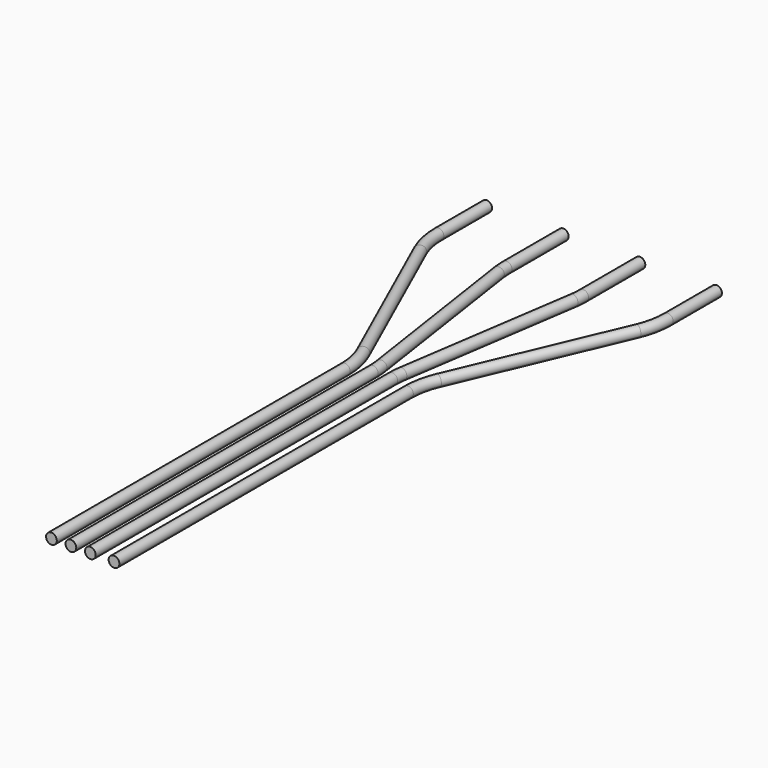
from build123d import *

# Parameters (mm, degrees)
F4_R = 1.4
F5_R = 1.4
F6_R = 1.4
F7_R = 1.4


with BuildPart() as f8:
    # F8: sweep along a path in F0
    with BuildLine(Plane.XY) as f8_path:
        Line((-7.62, 0), (-7.62, 95.728198357))
        ThreePointArc((-7.62, 95.728198357), (-8.0611685251, 99.9057707785), (-9.3652111337, 103.8990418536))
        Line((-9.3652111337, 103.8990418536), (-28.2547888663, 146.1009581464))
        ThreePointArc((-28.2547888663, 146.1009581464), (-29.5588314749, 150.0942292215), (-30, 154.271801643))
        Line((-30, 154.271801643), (-30, 170))
    # F4 (on Front) → F8 (sweep)
    with BuildSketch(Plane.XZ):
        with Locations((-7.62, 0)):
            Circle(F4_R)
    sweep(path=f8_path.line)


with BuildPart() as f9:
    # F9: sweep along a path in F1
    with BuildLine(Plane.XY) as f9_path:
        Line((-2.54, 0), (-2.54, 98.5162120673))
        ThreePointArc((-2.54, 98.5162120673), (-2.5948144923, 99.9959333459), (-2.7589575062, 101.4675436074))
        Line((-2.7589575062, 101.4675436074), (-9.7810424938, 148.5324563926))
        ThreePointArc((-9.7810424938, 148.5324563926), (-9.9451855077, 150.0040666541), (-10, 151.4837879327))
        Line((-10, 151.4837879327), (-10, 170))
    # F5 (on Front) → F9 (sweep)
    with BuildSketch(Plane.XZ):
        with Locations((-2.54, 0)):
            Circle(F5_R)
    sweep(path=f9_path.line)


with BuildPart() as f10:
    # F10: sweep along a path in F2
    with BuildLine(Plane.XY) as f10_path:
        Line((2.54, 0), (2.54, 98.5162120673))
        ThreePointArc((2.54, 98.5162120673), (2.5948144923, 99.9959333459), (2.7589575062, 101.4675436074))
        Line((2.7589575062, 101.4675436074), (9.7810424938, 148.5324563926))
        ThreePointArc((9.7810424938, 148.5324563926), (9.9451855077, 150.0040666541), (10, 151.4837879327))
        Line((10, 151.4837879327), (10, 170))
    # F6 (on Front) → F10 (sweep)
    with BuildSketch(Plane.XZ):
        with Locations((2.54, 0)):
            Circle(F6_R)
    sweep(path=f10_path.line)


with BuildPart() as f11:
    # F11: sweep along a path in F3
    with BuildLine(Plane.XY) as f11_path:
        Line((8.7194243317, 0), (8.7194243317, 95.9209268862))
        ThreePointArc((8.7194243317, 95.9209268862), (9.1228519502, 99.9177194624), (10.3168594214, 103.7532703875))
        Line((10.3168594214, 103.7532703875), (28.4025649103, 146.2467296125))
        ThreePointArc((28.4025649103, 146.2467296125), (29.5965723815, 150.0822805376), (30, 154.0790731138))
        Line((30, 154.0790731138), (30, 170))
    # F7 (on Front) → F11 (sweep)
    with BuildSketch(Plane.XZ):
        with Locations((8.7194243317, 0)):
            Circle(F7_R)
    sweep(path=f11_path.line)


solid = Compound([f8.part, f9.part, f10.part, f11.part])
